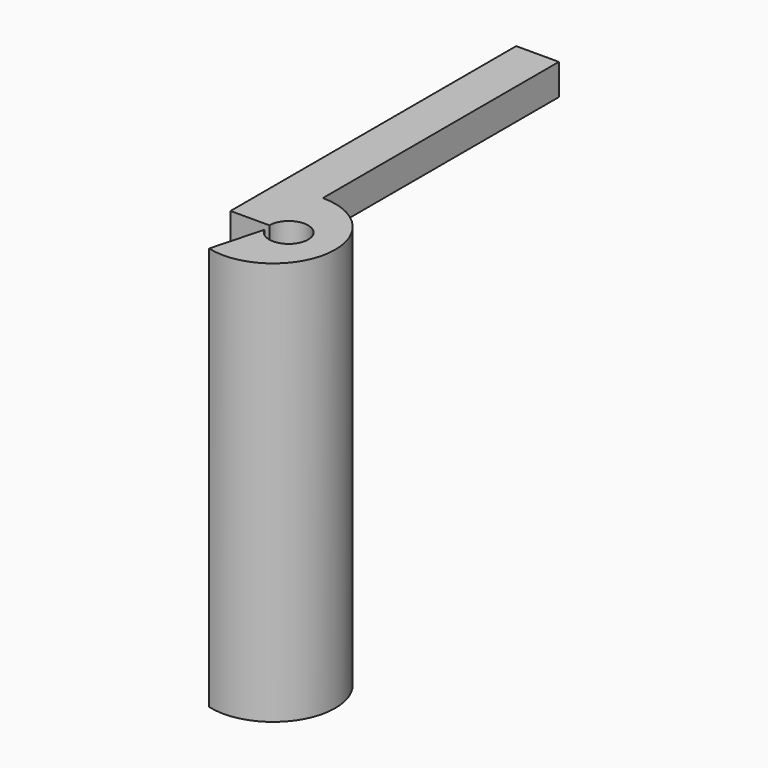
from build123d import *

# Parameters (mm, degrees)
CYLINDER005_R               = 1.25
CYLINDER005_DEPTH           = 10
BOX007_W                    = 23
BOX007_H                    = 2.75
BOX007_DEPTH                = 2
CYLINDER002_W               = 4
CYLINDER002_H               = 26
CYLINDER002_ANGLE           = 195
CYLINDER002_PLACEMENT_ANGLE = 105


with BuildPart() as b_so:
    # Cylinder005 → Cylinder005 (new body)
    with BuildSketch(Plane(origin=(41, 5, 4), x_dir=(1, 0, 0), z_dir=(0, 0, 1))):
        Circle(CYLINDER005_R)
    extrude(amount=CYLINDER005_DEPTH)


with BuildPart() as o001:
    # Box007 → Box007 (new body)
    with BuildSketch(Plane(origin=(40, 5, 10), x_dir=(0, 1, 0), z_dir=(0, 0, 1))):
        with Locations((11.5, 1.375)):
            Rectangle(BOX007_W, BOX007_H)
    extrude(amount=BOX007_DEPTH)


with BuildPart() as cut002_o:
    # Cylinder002 → Cylinder002 (revolve)
    with BuildSketch(Plane.XZ):
        with Locations((2, 13)):
            Rectangle(CYLINDER002_W, CYLINDER002_H)
    revolve(axis=Axis((0, 0, 0), (0, 0, 1)), revolution_arc=CYLINDER002_ANGLE)


with BuildPart() as cut002_o_1:
    # Cylinder002 placement: moved
    add(cut002_o.part.moved(Location((40, 5, -14))).rotate(Axis((40, 5, -14), (0, 0, -1)), CYLINDER002_PLACEMENT_ANGLE))

    # Fusion004: union O001
    add(o001.part)

    # Cut002: cut B_SO
    add(b_so.part, mode=Mode.SUBTRACT)


with BuildPart() as cut002_o_2:
    # Cut002 placement: moved
    add(cut002_o_1.part.moved(Location((40, 5, 0))))


solid = cut002_o_2.part
